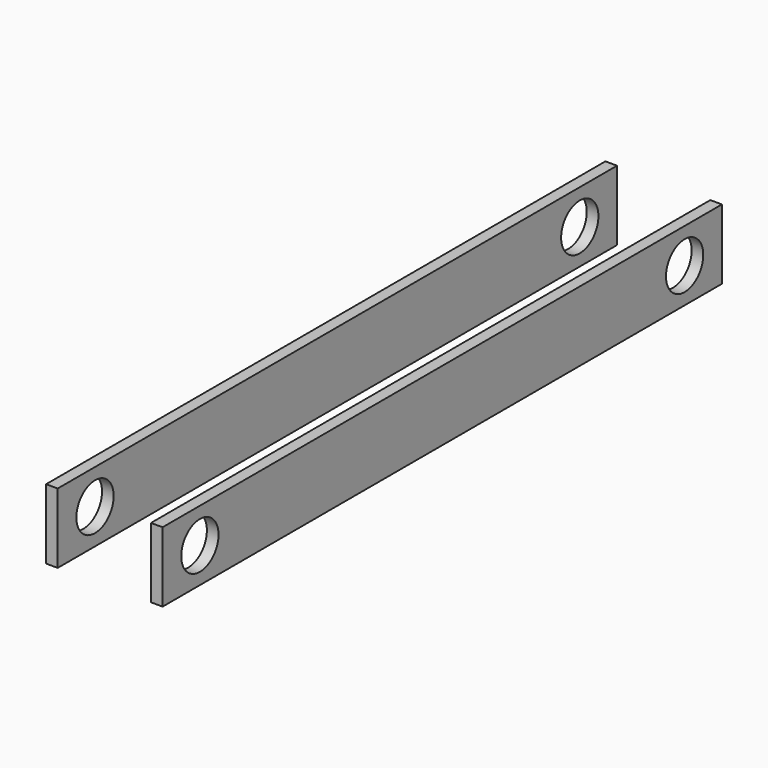
from build123d import *

# Parameters (mm, degrees)
F0_W     = 0.635
F0_H     = 3.81
F1_DEPTH = 38.1
F2_R     = 1.27
F3_DEPTH = 11.684
F4_R     = 1.27
F5_DEPTH = 25.4


with BuildPart() as f1:
    # F0 (on Front) → F1 (new body)
    with BuildSketch(Plane.XZ):
        with Locations((-2.8575, 0)):
            Rectangle(F0_W, F0_H)
        with Locations((2.8575, 0)):
            Rectangle(F0_W, F0_H)
    extrude(amount=-F1_DEPTH)

    # F2 (on face) → F3 (cut)
    with BuildSketch(Plane(origin=(2.54, 0, 0), x_dir=(0, -1, 0), z_dir=(-1, 0, 0))):
        with Locations((-2.54, 0)):
            Circle(F2_R)
        with Locations((-35.56, 0)):
            Circle(F2_R)
    extrude(amount=-F3_DEPTH, mode=Mode.SUBTRACT)

    # F4 (on face) → F5 (cut)
    with BuildSketch(Plane.YZ.offset(-2.54)):
        with Locations((2.54, 0)):
            Circle(F4_R)
        with Locations((35.56, 0)):
            Circle(F4_R)
    extrude(amount=-F5_DEPTH, mode=Mode.SUBTRACT)


solid = f1.part
